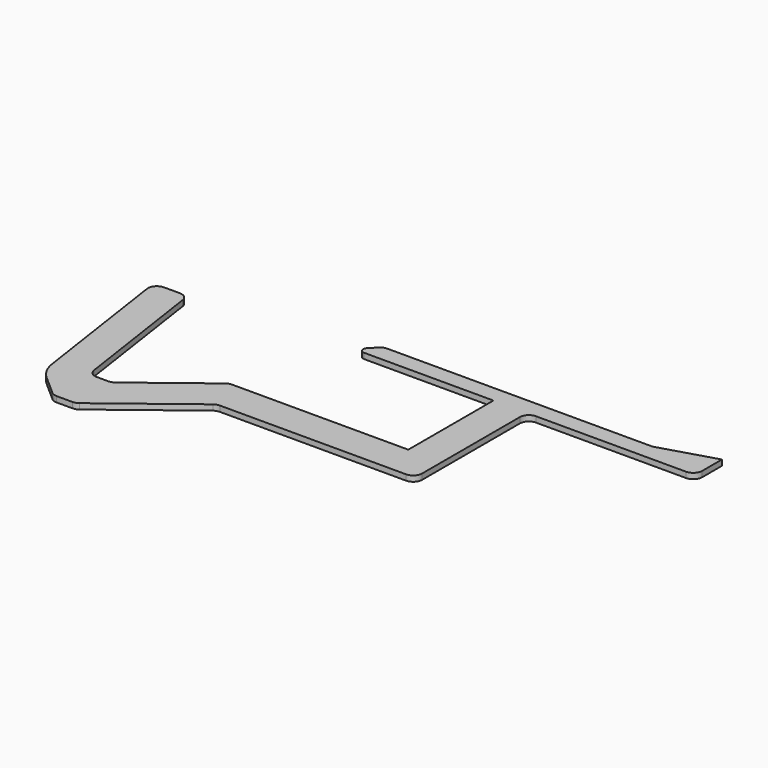
from build123d import *

# Parameters (mm, degrees)
F1_DEPTH = 5


with BuildPart() as f1:
    # F0 (on Top) → F1 (new body)
    with BuildSketch(Plane.XY):
        with BuildLine():
            Line((-66.011498, -128.172389), (-83.988502, -6.827611))
            ThreePointArc((-83.988502, -6.827611), (-86.67619, -1.942809), (-91.90213, 0))
            Line((-91.90213, 0), (-106.054931, 0))
            ThreePointArc((-106.054931, 0), (-112.112122, -2.774061), (-113.968559, -9.172389))
            Line((-113.968559, -9.172389), (-94.676104, -139.39646))
            ThreePointArc((-94.676104, -139.39646), (-91.362346, -149.318754), (-84.843135, -157.5))
            Line((-84.843135, -157.5), (-67.267787, -173))
            ThreePointArc((-67.267787, -173), (-64.804711, -174.483315), (-61.976284, -175))
            Line((-61.976284, -175), (-47.720976, -175))
            ThreePointArc((-47.720976, -175), (-45.144926, -174.5739), (-42.843289, -173.340992))
            Line((-42.843289, -173.340992), (30.843289, -116.659008))
            ThreePointArc((30.843289, -116.659008), (33.144926, -115.4261), (35.720976, -115))
            Line((35.720976, -115), (202, -115))
            ThreePointArc((202, -115), (207.656854, -112.656854), (210, -107))
            Line((210, -107), (210, 2))
            ThreePointArc((210, 2), (212.343146, 7.656854), (218, 10))
            Line((218, 10), (352, 10))
            ThreePointArc((352, 10), (357.656854, 12.343146), (360, 18))
            Line((360, 18), (360, 40))
            Line((360, 40), (311.124632, 25.33739))
            ThreePointArc((311.124632, 25.33739), (309.987554, 25.084797), (308.825849, 25))
            Line((308.825849, 25), (73.313708, 25))
            ThreePointArc((73.313708, 25), (70.252241, 24.391036), (67.656854, 22.656854))
            Line((67.656854, 22.656854), (61.828427, 16.828427))
            ThreePointArc((61.828427, 16.828427), (60.961336, 12.469266), (64.656854, 10))
            Line((64.656854, 10), (180, 10))
            Line((180, 10), (180, -85))
            Line((180, -85), (22.720976, -85))
            ThreePointArc((22.720976, -85), (20.144926, -85.4261), (17.843289, -86.659008))
            Line((17.843289, -86.659008), (-42.843289, -133.340992))
            ThreePointArc((-42.843289, -133.340992), (-45.144926, -134.5739), (-47.720976, -135))
            Line((-47.720976, -135), (-58.09787, -135))
            ThreePointArc((-58.09787, -135), (-63.32381, -133.057191), (-66.011498, -128.172389))
        make_face()
    extrude(amount=F1_DEPTH)


solid = f1.part
